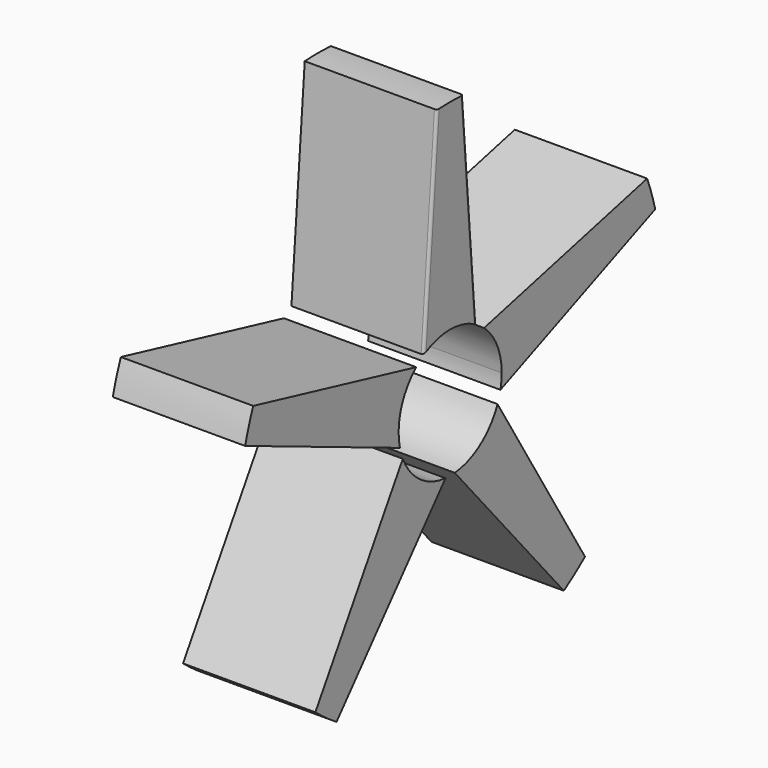
from build123d import *

# Parameters (mm, degrees)
F1_DEPTH = 127
F2_R     = 2.54


with BuildPart() as f1:
    # F0 (on Right) → F1 (new body)
    with BuildSketch(Plane.YZ):
        with BuildLine():
            Line((60.293559, -13.711046), (245.958905, 63.405183))
            ThreePointArc((245.958905, 63.405183), (241.568355, 78.490317), (236.253565, 93.275146))
            Line((236.253565, 93.275146), (40.719363, 46.532134))
            ThreePointArc((40.719363, 46.532134), (56.307645, 25.549073), (61.832888, 0))
            ThreePointArc((61.832888, 0), (61.44685, -6.898593), (60.293559, -13.711046))
        make_face()
        with BuildLine():
            Line((31.671714, 53.105635), (15.703569, 253.514098))
            ThreePointArc((15.703569, 253.514098), (0, 254), (-15.703569, 253.514098))
            Line((-15.703569, 253.514098), (-31.671714, 53.105635))
            ThreePointArc((-31.671714, 53.105635), (0, 61.832888), (31.671714, 53.105635))
        make_face()
        with BuildLine():
            Line((-40.719363, 46.532134), (-236.253565, 93.275146))
            ThreePointArc((-236.253565, 93.275146), (-241.568355, 78.490317), (-245.958905, 63.405183))
            Line((-245.958905, 63.405183), (-60.293559, -13.711046))
            ThreePointArc((-60.293559, -13.711046), (-58.806571, 19.107413), (-40.719363, 46.532134))
        make_face()
        with BuildLine():
            ThreePointArc((-161.716302, -195.866887), (-149.297454, -205.490317), (-136.307394, -214.32754))
            Line((-136.307394, -214.32754), (-5.591754, -61.579528))
            ThreePointArc((-5.591754, -61.579528), (-36.344459, -50.023857), (-56.837664, -24.347195))
            Line((-56.837664, -24.347195), (-161.716302, -195.866887))
        make_face()
        with BuildLine():
            ThreePointArc((136.307394, -214.32754), (149.297454, -205.490317), (161.716302, -195.866887))
            Line((161.716302, -195.866887), (56.837664, -24.347195))
            ThreePointArc((56.837664, -24.347195), (36.344459, -50.023857), (5.591754, -61.579528))
            Line((5.591754, -61.579528), (136.307394, -214.32754))
        make_face()
    extrude(amount=F1_DEPTH)

    # F2
    f2_edges = [f1.edges().sort_by_distance(p)[0] for p in [
        (127, 23.687642, 153.309867),
        (127, -23.687642, 153.309867),
    ]]
    fillet(f2_edges, radius=F2_R)


solid = f1.part
